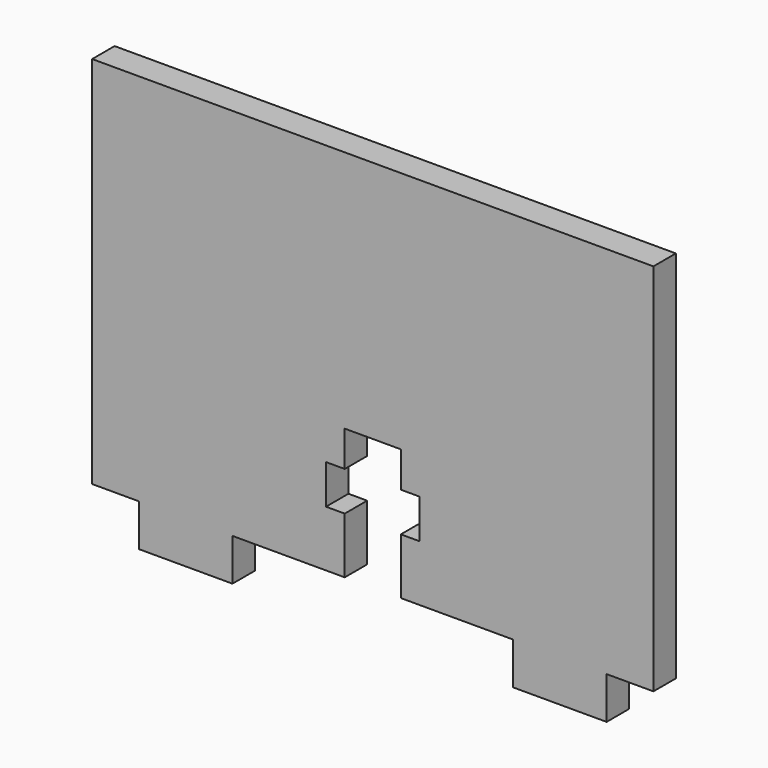
from build123d import *

# Parameters (mm, degrees)
F1_DEPTH = 1.5


with BuildPart() as f1:
    # F0 (on Front) → F1 (new body, symmetric)
    with BuildSketch(Plane.XZ):
        Polygon((-30, 40), (-30, 0), (-25, 0), (-25, -4.5), (-15, -4.5), (-15, 0), (-3, 0), (-3, 6), (-5, 6), (-5, 10.2), (-3, 10.2), (-3, 14), (3, 14), (3, 10.2), (5, 10.2), (5, 6), (3, 6), (3, 0), (15, 0), (15, -4.5), (25, -4.5), (25, 0), (30, 0), (30, 40), align=None)
    extrude(amount=F1_DEPTH, both=True)


solid = f1.part
